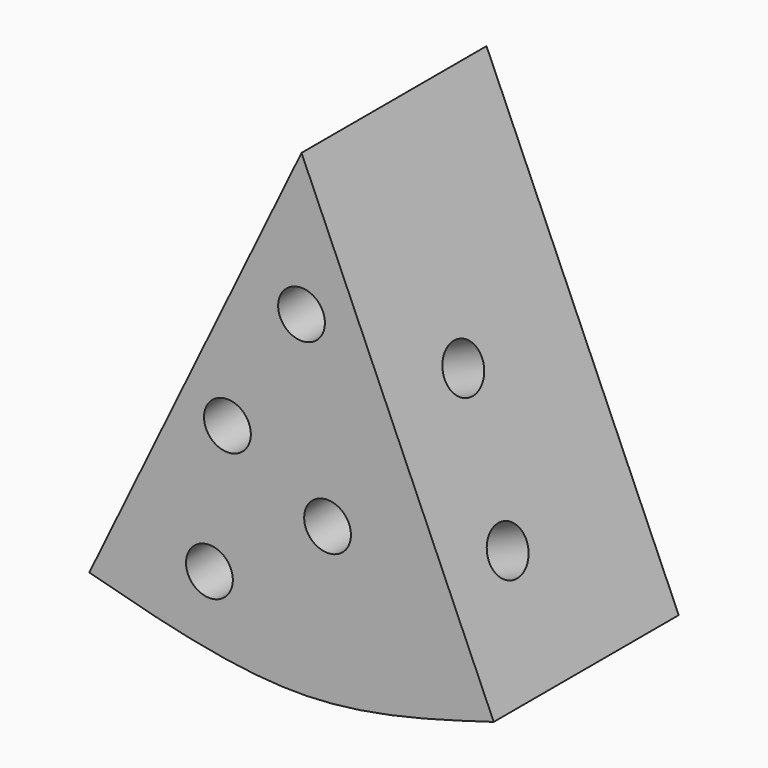
from build123d import *

# Parameters (mm, degrees)
F1_DEPTH = 27.178
F3_D     = 5.5
F5_D     = 5.5
F5_DEPTH = 24.9452943441
F7_D     = 5.5


with BuildPart() as f1:
    # F0 (on Front) → F1 (new body)
    with BuildSketch(Plane.XZ):
        with BuildLine():
            Line((22.5910581648, 0), (0, 51.5358522534))
            Line((0, 51.5358522534), (-24.9442942441, 0))
            add(Edge.make_bspline(
                [(-24.9442942441, 0), (-16.523205839, -2.2720942609), (-0.0744536131, -6.7101328772), (15.1573265052, -2.2007589195), (22.5910581648, 0)],
                knots=[0, 0, 0, 0, 0.5119591012, 1, 1, 1, 1], degree=3))
        make_face()
    extrude(amount=F1_DEPTH)

    # F3 (through all)
    with Locations(Plane(origin=(0, 0, 0), x_dir=(1, 0, 0), z_dir=(0, 1, 0))):
        with Locations((0, -34.8278842866), (-8.7069710717, -20.4731468111), (3.0592049006, -13.8840889558), (-10.8248824254, -4.7064707614)):
            Hole(F3_D / 2)

    # F5 (through all, one way)
    with BuildSketch(Plane.YZ):
        with Locations((-5.6477654725, 36.9457937777), (-13.8840880245, 23.5323533416), (-6.589059718, 13.6487651616)):
            Circle(F5_D / 2)
    extrude(amount=-F5_DEPTH, mode=Mode.SUBTRACT)

    # F7 (through all)
    with Locations(Plane(origin=(18.9497480834, 0, 8.3067387545), x_dir=(0, 1, 0), z_dir=(0.9158691563, 0, 0.4014768841))):
        with Locations((-18.3552354574, 4.4290916994), (-16.2373241037, 21.6440800577)):
            Hole(F7_D / 2)


solid = f1.part
